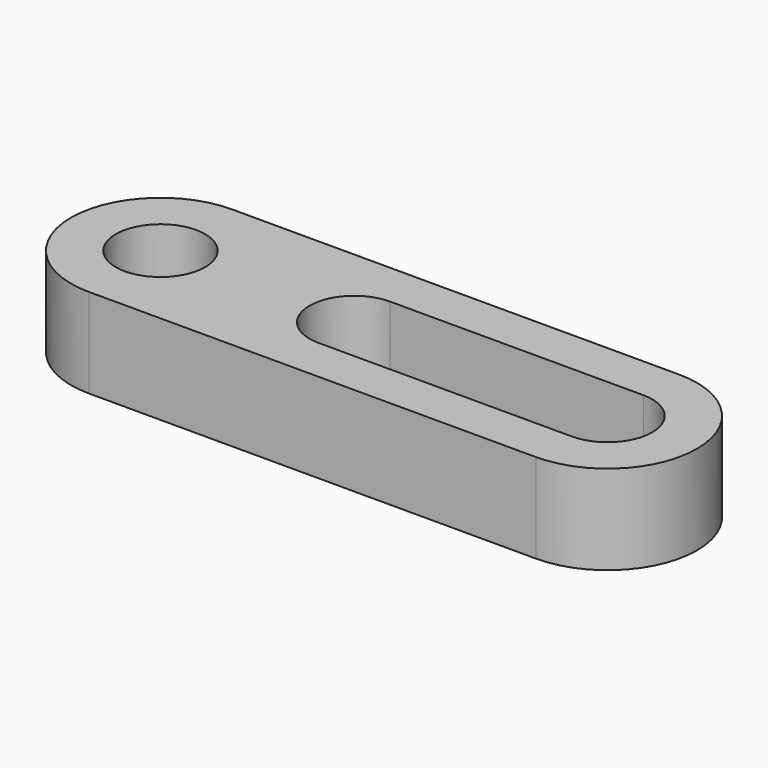
from build123d import *

# Parameters (mm, degrees)
F0_R     = 1.5
F1_DEPTH = 3


with BuildPart() as f1:
    # F0 (on Top) → F1 (new body)
    with BuildSketch(Plane.XY):
        with BuildLine():
            Line((7.5, 3), (0, 3))
            Line((0, 3), (-7.5, 3))
            ThreePointArc((-7.5, 3), (-5.37868, 2.12132), (-4.5, 0))
            ThreePointArc((-4.5, 0), (-5.37868, -2.12132), (-7.5, -3))
            Line((-7.5, -3), (0, -3))
            Line((0, -3), (7.5, -3))
            ThreePointArc((7.5, -3), (10.5, 0), (7.5, 3))
        make_face()
        with BuildLine():
            ThreePointArc((-1, -1.5), (-2.5, 0), (-1, 1.5))
            Line((-1, 1.5), (7.5, 1.5))
            ThreePointArc((7.5, 1.5), (8.56066, 1.06066), (9, 0))
            ThreePointArc((9, 0), (8.56066, -1.06066), (7.5, -1.5))
            Line((7.5, -1.5), (-1, -1.5))
        make_face(mode=Mode.SUBTRACT)
        with BuildLine():
            ThreePointArc((-4.5, 0), (-5.37868, 2.12132), (-7.5, 3))
            ThreePointArc((-7.5, 3), (-10.5, 0), (-7.5, -3))
            ThreePointArc((-7.5, -3), (-5.37868, -2.12132), (-4.5, 0))
        make_face()
        with Locations((-7.5, 0)):
            Circle(F0_R, mode=Mode.SUBTRACT)
    extrude(amount=F1_DEPTH)


solid = f1.part
